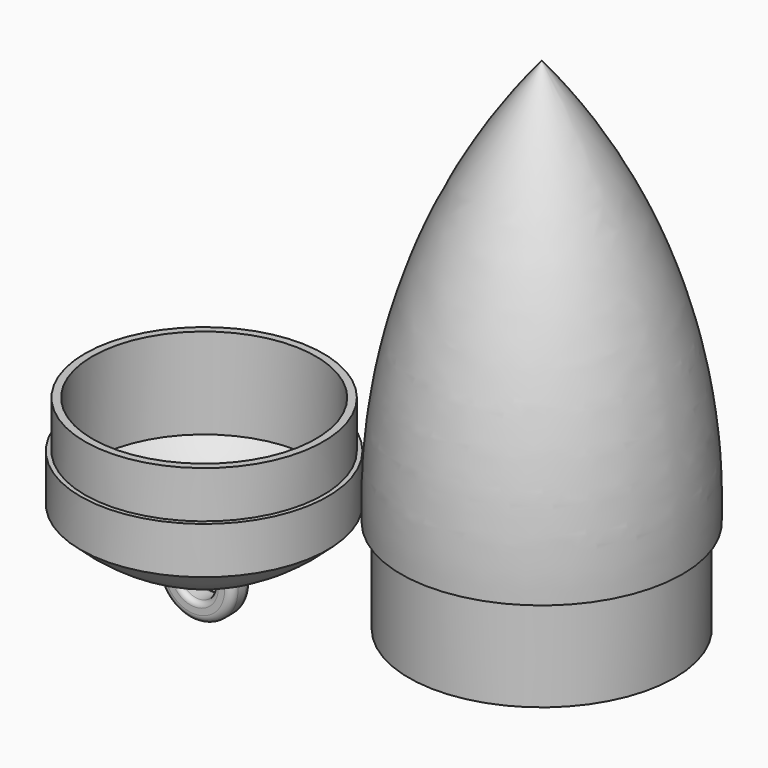
from build123d import *

# Parameters (mm, degrees)
F5_DEPTH = 2.54
F6_DEPTH = 2.54
F7_R     = 1.524
F8_R     = 1.524
F9_R     = 1.016
F10_R    = 1.016


with BuildPart() as f1:
    # F0 (on Front) → F1 (revolve)
    with BuildSketch(Plane.XZ):
        with BuildLine():
            Line((0, 101.6), (0, 97.5729987649))
            ThreePointArc((0, 97.5729987649), (19.5425518645, 61.8132458153), (26.081798426, 21.589999815))
            Line((26.081798426, 21.589999815), (24.447500185, 21.589999815))
            Line((24.447500185, 21.589999815), (24.447500185, 0))
            Line((24.447500185, 0), (26.9875, 0))
            Line((26.9875, 0), (26.9875, 19.05))
            Line((26.9875, 19.05), (28.575, 19.05))
            ThreePointArc((28.575, 19.05), (21.8409400856, 62.9396523373), (0, 101.6))
        make_face()
    revolve(axis=Axis((0, 0, 50.8), (0, 0, 1)))


with BuildPart() as f3:
    # F2 (on Front) → F3 (revolve)
    with BuildSketch(Plane.XZ):
        with BuildLine():
            Line((-68.5724305727, -12.5413592808), (-68.5724305727, -10.9928883919))
            ThreePointArc((-68.5724305727, -10.9928883919), (-80.7797398281, -6.8475925332), (-91.2729501724, 0.6420278631))
            Line((-91.2729501724, 0.6420278631), (-91.2729501724, 19.05))
            Line((-91.2729501724, 19.05), (-92.7969515324, 19.05))
            Line((-92.7969515324, 19.05), (-92.7969515324, 9.525))
            Line((-92.7969515324, 9.525), (-93.6859515324, 9.525))
            Line((-93.6859515324, 9.525), (-93.6859515324, 0))
            ThreePointArc((-93.6859515324, 0), (-82.1061057024, -8.2269083063), (-68.5724305727, -12.5413592808))
        make_face()
    revolve(axis=Axis((-68.5724305727, 0, 3.3336407192), (0, 0, -1)))

    # F4 (on Front) → F5 (join)
    with BuildSketch(Plane.XZ):
        with BuildLine():
            Line((-72.1689163026, -11.4644473747), (-75.779212, -10.2384622619))
            ThreePointArc((-75.779212, -10.2384622619), (-68.3794828285, -20.1120941348), (-61.2967773305, -10.0086352716))
            Line((-61.2967773305, -10.0086352716), (-64.8672466294, -11.3457288649))
            ThreePointArc((-64.8672466294, -11.3457288649), (-68.4384531897, -16.302549949), (-72.1689163026, -11.4644473747))
        make_face()
    extrude(amount=F5_DEPTH)

    # F6 (add): a face of the model
    f6_faces = [f3.faces().sort_by_distance(p)[0] for p in [
        (-74.1464349036, 0, -11.5047285312),
    ]]
    extrude(f6_faces, amount=F6_DEPTH)

    # F7
    f7_edges = [f3.edges().sort_by_distance(p)[0] for p in [
        (-68.477666, 2.54, -20.11302),
    ]]
    fillet(f7_edges, radius=F7_R)

    # F8
    f8_edges = [f3.edges().sort_by_distance(p)[0] for p in [
        (-68.47824, -2.54, -20.113021),
    ]]
    fillet(f8_edges, radius=F8_R)

    # F9
    f9_edges = [f3.edges().sort_by_distance(p)[0] for p in [
        (-68.48533, -2.54, -16.303024),
    ]]
    fillet(f9_edges, radius=F9_R)

    # F10
    f10_edges = [f3.edges().sort_by_distance(p)[0] for p in [
        (-68.483464, 2.54, -16.303016),
    ]]
    fillet(f10_edges, radius=F10_R)


solid = Compound([f1.part, f3.part])
